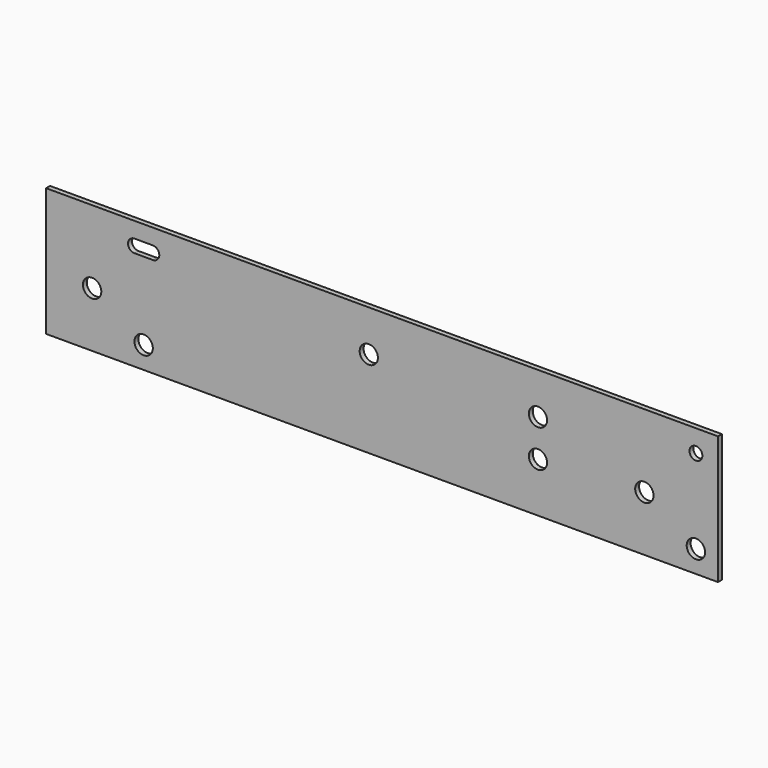
from build123d import *

# Parameters (mm, degrees)
F0_W     = 365
F0_H     = 69.7
F0_R     = 5
F0_R_2   = 4.95
F0_R_3   = 3.5
F1_DEPTH = 2.67


with BuildPart() as f1:
    # F0 (on Front) → F1 (new body)
    with BuildSketch(Plane.XZ):
        with Locations((182.5, 34.85)):
            Rectangle(F0_W, F0_H)
        with Locations((53, 12)):
            Circle(F0_R, mode=Mode.SUBTRACT)
        with Locations((25, 30)):
            Circle(F0_R, mode=Mode.SUBTRACT)
        with Locations((353, 12)):
            Circle(F0_R, mode=Mode.SUBTRACT)
        with Locations((267.2, 26.9)):
            Circle(F0_R_2, mode=Mode.SUBTRACT)
        with Locations((325, 30)):
            Circle(F0_R, mode=Mode.SUBTRACT)
        with Locations((175.3, 47.2)):
            Circle(F0_R_2, mode=Mode.SUBTRACT)
        with BuildLine():
            ThreePointArc((48, 54.2), (44.5, 57.7), (48, 61.2))
            Line((48, 61.2), (58, 61.2))
            ThreePointArc((58, 61.2), (60.474874, 60.174874), (61.5, 57.7))
            ThreePointArc((61.5, 57.7), (60.474874, 55.225126), (58, 54.2))
            Line((58, 54.2), (48, 54.2))
        make_face(mode=Mode.SUBTRACT)
        with Locations((267.2, 47.2)):
            Circle(F0_R_2, mode=Mode.SUBTRACT)
        with Locations((353, 57.7)):
            Circle(F0_R_3, mode=Mode.SUBTRACT)
        with Locations((182.5, 34.85)):
            Rectangle(F0_W, F0_H)
        with Locations((53, 12)):
            Circle(F0_R, mode=Mode.SUBTRACT)
        with Locations((25, 30)):
            Circle(F0_R, mode=Mode.SUBTRACT)
        with Locations((353, 12)):
            Circle(F0_R, mode=Mode.SUBTRACT)
        with Locations((267.2, 26.9)):
            Circle(F0_R_2, mode=Mode.SUBTRACT)
        with Locations((325, 30)):
            Circle(F0_R, mode=Mode.SUBTRACT)
        with Locations((175.3, 47.2)):
            Circle(F0_R_2, mode=Mode.SUBTRACT)
        with BuildLine():
            ThreePointArc((48, 54.2), (44.5, 57.7), (48, 61.2))
            Line((48, 61.2), (58, 61.2))
            ThreePointArc((58, 61.2), (60.474874, 60.174874), (61.5, 57.7))
            ThreePointArc((61.5, 57.7), (60.474874, 55.225126), (58, 54.2))
            Line((58, 54.2), (48, 54.2))
        make_face(mode=Mode.SUBTRACT)
        with Locations((267.2, 47.2)):
            Circle(F0_R_2, mode=Mode.SUBTRACT)
        with Locations((353, 57.7)):
            Circle(F0_R_3, mode=Mode.SUBTRACT)
    extrude(amount=F1_DEPTH)


solid = f1.part
